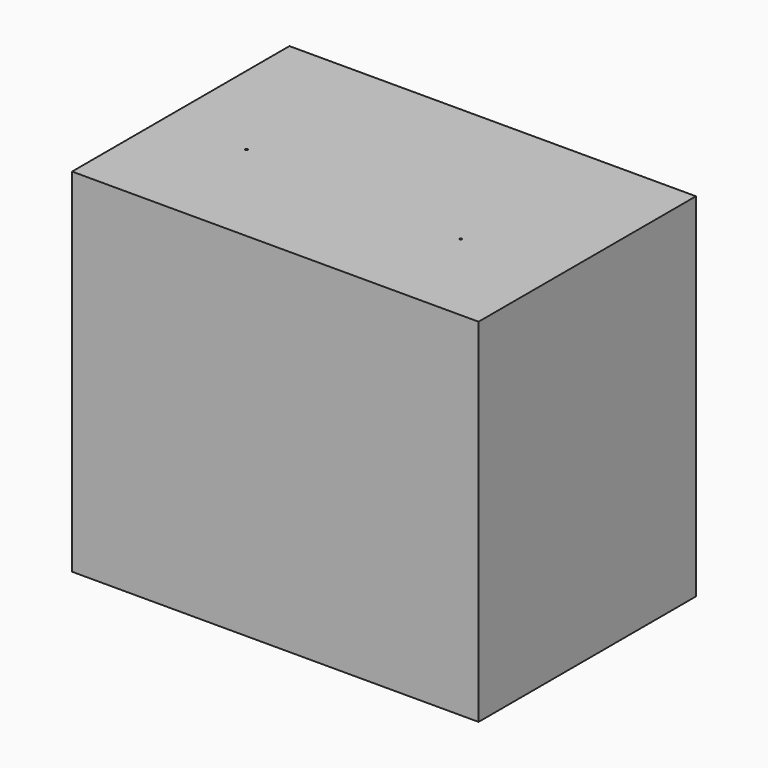
from build123d import *

# Parameters (mm, degrees)
F0_W     = 3000
F0_H     = 2600
F1_DEPTH = 2005
F3_D     = 17.5
F3_DEPTH = 3000
F3_TIP   = 5.2575304165


with BuildPart() as f1:
    # F0 (on Front) → F1 (new body)
    with BuildSketch(Plane.XZ):
        with Locations((-1500, 1300)):
            Rectangle(F0_W, F0_H)
    extrude(amount=F1_DEPTH)

    # F3
    with Locations(Plane.XY.offset(2600)):
        with Locations((-2387.3987197876, -1162.1713638306), (-725.3686189651, -1262.9429101944)):
            Hole(F3_D / 2, depth=F3_DEPTH)
            with Locations((0, 0, -(F3_DEPTH + F3_TIP / 2))):  # 118° drill point
                Cone(0, F3_D / 2, F3_TIP, mode=Mode.SUBTRACT)


solid = f1.part
